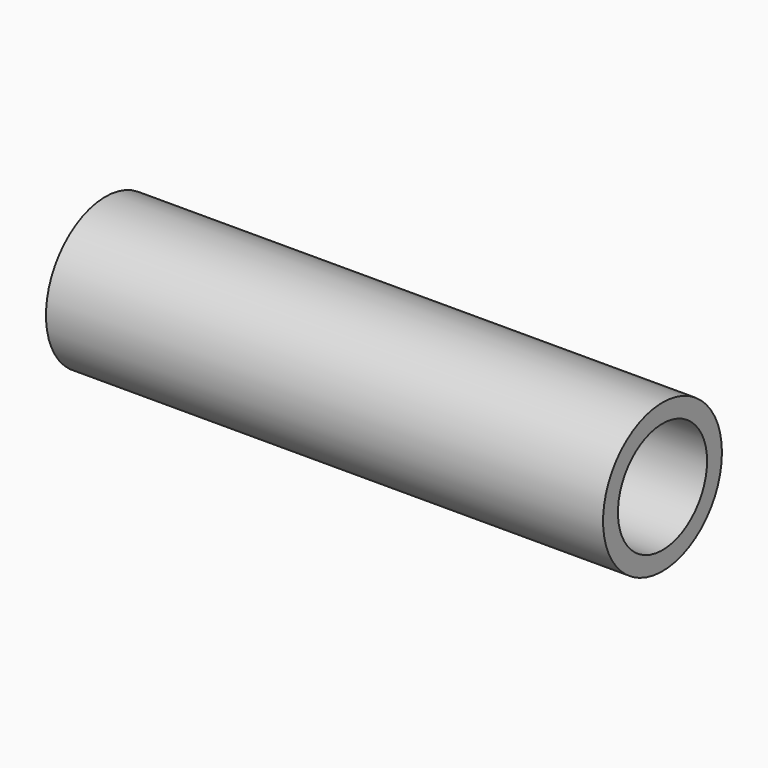
from build123d import *

# Parameters (mm, degrees)
F0_R     = 10.16
F1_DEPTH = 76.2
F2_R     = 7.62
F3_DEPTH = 76.2


with BuildPart() as f1:
    # F0 (on Right) → F1 (new body)
    with BuildSketch(Plane.YZ):
        Circle(F0_R)
    extrude(amount=F1_DEPTH)

    # F2 (on Right) → F3 (cut)
    with BuildSketch(Plane.YZ):
        Circle(F2_R)
    extrude(amount=F3_DEPTH, mode=Mode.SUBTRACT)


solid = f1.part
